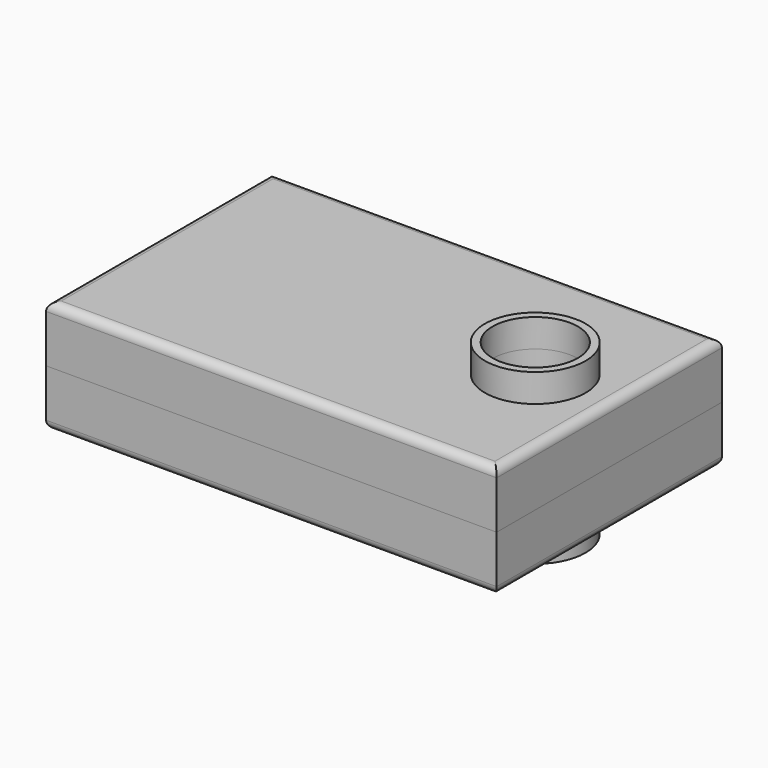
from build123d import *

# Parameters (mm, degrees)
F0_W     = 406.4
F0_H     = 254
F1_DEPTH = 50.8
F2_R     = 7.62
F3_R     = 38.512752
F4_DEPTH = 50.801
F5_T     = -6.35
F6_R     = 45.404172
F6_R_2   = 38.512752
F7_DEPTH = 25.4


with BuildPart() as f1:
    # F0 (on Top) → F1 (new body)
    with BuildSketch(Plane.XY):
        with Locations((-203.2, 127)):
            Rectangle(F0_W, F0_H)
    extrude(amount=F1_DEPTH)

    # F2
    f2_edges = [f1.edges().sort_by_distance(p)[0] for p in [
        (-406.4, 127, 50.8),
        (-203.2, 0, 50.8),
        (0, 127, 50.8),
        (-203.2, 254, 50.8),
    ]]
    fillet(f2_edges, radius=F2_R)

    # F3 (on face) → F4 (cut, through all)
    with BuildSketch(Plane.XY.offset(50.8)):
        with Locations((-68.333499, 128.950953)):
            Circle(F3_R)
    extrude(amount=-F4_DEPTH, mode=Mode.SUBTRACT)

    # F5
    f5_openings = [f1.faces().sort_by_distance(p)[0] for p in [
        (-209.575826, 126.907769, 0),
    ]]
    offset(amount=F5_T, openings=f5_openings)

    # F6 (on face) → F7 (join)
    with BuildSketch(Plane.XY.offset(50.8)):
        with Locations((-68.333499, 128.950953)):
            Circle(F6_R)
        with Locations((-68.333499, 128.950953)):
            Circle(F6_R_2, mode=Mode.SUBTRACT)
    extrude(amount=F7_DEPTH)

    # F8: F1 across plane


with BuildPart() as f1_1:
    add(f1.part)
    add(f1.part.mirror(Plane.XY))


solid = f1_1.part
